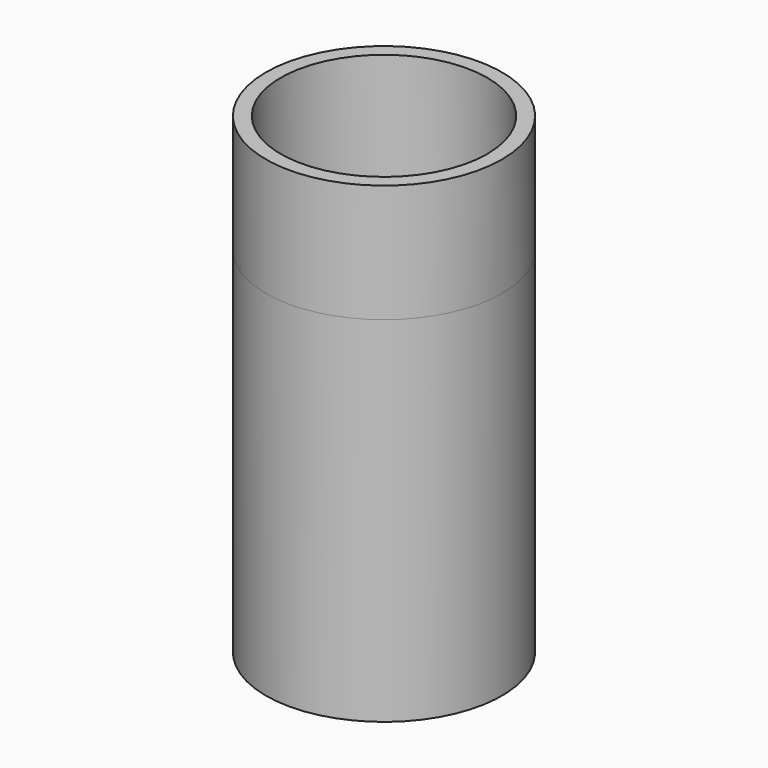
from build123d import *

# Parameters (mm, degrees)
F0_W     = 6.35
F0_H     = 152.4
F2_R     = 50.8
F2_R_2   = 44.45
F3_DEPTH = 50.8


with BuildPart() as f1:
    # F0 (on Right) → F1 (revolve)
    with BuildSketch(Plane.YZ):
        with Locations((-47.625, 0.547151)):
            Rectangle(F0_W, F0_H)
    revolve(axis=Axis((0, 0, 0.619188), (0, 0, -1)))

    # F2 (on face) → F3 (join)
    with BuildSketch(Plane.XY.offset(76.747151)):
        Circle(F2_R)
        Circle(F2_R_2, mode=Mode.SUBTRACT)
    extrude(amount=F3_DEPTH)


solid = f1.part
